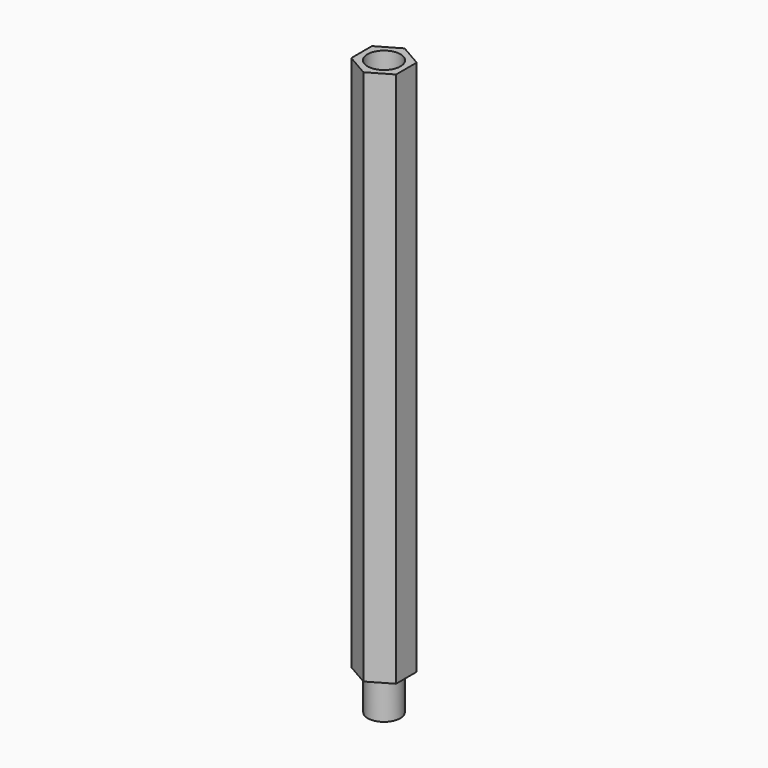
from build123d import *

# Parameters (mm, degrees)
F1_DEPTH = 57
F2_R     = 1.75
F3_DEPTH = 10
F4_R     = 1.725
F5_DEPTH = 4


with BuildPart() as f1:
    # F0 (on Top) → F1 (new body)
    with BuildSketch(Plane.XY):
        Polygon((2.375, 1.371207), (0, 2.742414), (-2.375, 1.371207), (-2.375, -1.371207), (0, -2.742414), (2.375, -1.371207), align=None)
    extrude(amount=F1_DEPTH)

    # F2 (on face) → F3 (cut)
    with BuildSketch(Plane.XY.offset(57)):
        Circle(F2_R)
    extrude(amount=-F3_DEPTH, mode=Mode.SUBTRACT)

    # F4 (on face) → F5 (join)
    with BuildSketch(Plane(origin=(0, 0, 0), x_dir=(1, 0, 0), z_dir=(0, 0, -1))):
        Circle(F4_R)
    extrude(amount=F5_DEPTH)


solid = f1.part
